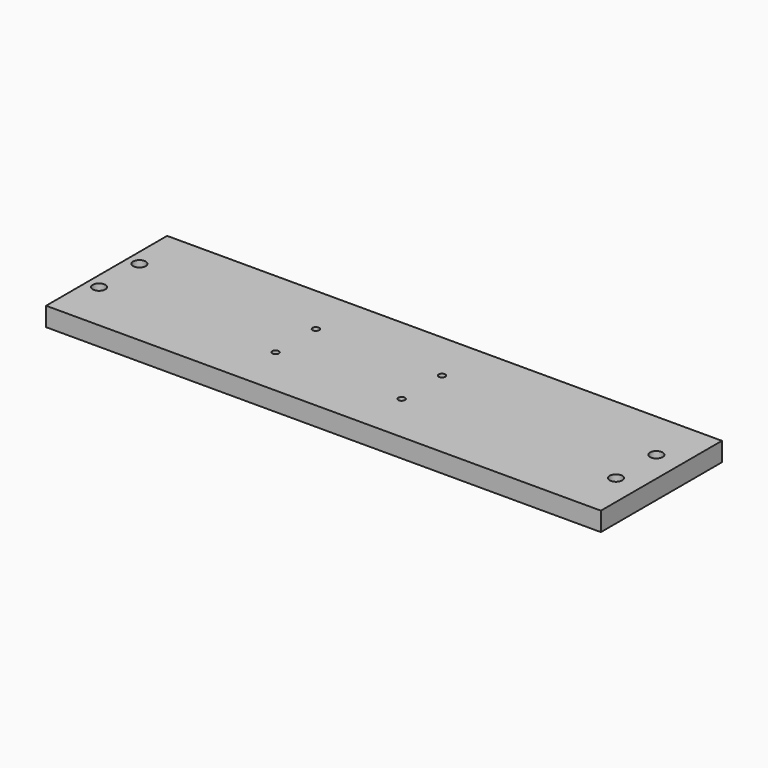
from build123d import *

# Parameters (mm, degrees)
F0_W     = 11
F0_H     = 3
F0_R     = 0.125
F0_R_2   = 0.065
F1_DEPTH = 0.375


with BuildPart() as f1:
    # F0 (on Top) → F1 (new body)
    with BuildSketch(Plane.XY):
        Rectangle(F0_W, F0_H)
        with Locations((-5.25, -0.5)):
            Circle(F0_R, mode=Mode.SUBTRACT)
        with Locations((-1.75, -0.5)):
            Circle(F0_R_2, mode=Mode.SUBTRACT)
        with Locations((0.75, -0.5)):
            Circle(F0_R_2, mode=Mode.SUBTRACT)
        with Locations((5, -0.5)):
            Circle(F0_R, mode=Mode.SUBTRACT)
        with Locations((-5.25, 0.5)):
            Circle(F0_R, mode=Mode.SUBTRACT)
        with Locations((-1.75, 0.5)):
            Circle(F0_R_2, mode=Mode.SUBTRACT)
        with Locations((0.75, 0.5)):
            Circle(F0_R_2, mode=Mode.SUBTRACT)
        with Locations((5, 0.5)):
            Circle(F0_R, mode=Mode.SUBTRACT)
    extrude(amount=F1_DEPTH)


solid = f1.part
